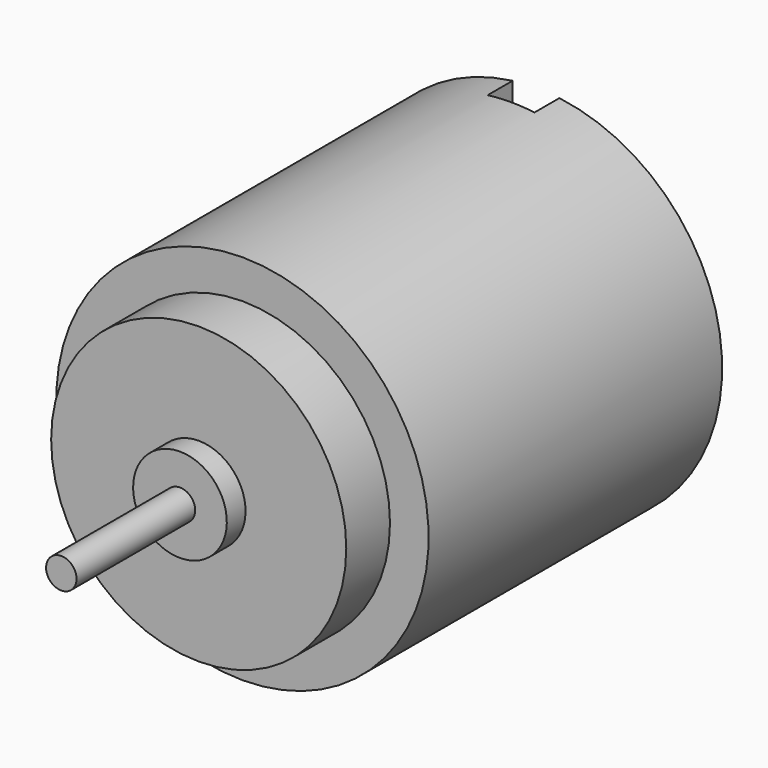
from build123d import *

# Parameters (mm, degrees)
F3_DEPTH = 2


with BuildPart() as f1:
    # F0 (on Right) → F1 (revolve)
    with BuildSketch(Plane.YZ):
        Polygon((-38, 0), (0, 0), (0, 11.925), (-23.5, 11.925), (-23.5, 9.45), (-27, 9.45), (-27, 3), (-28.5, 3), (-28.5, 0.975), (-38, 0.975), align=None)
    revolve(axis=Axis((0, -23.908602, 0), (0, -1, 0)))

    # F2 (on face) → F3 (cut)
    with BuildSketch(Plane(origin=(0, 0, 0), x_dir=(-1, 0, 0), z_dir=(0, 1, 0))):
        with BuildLine():
            Line((1.5, 11.925), (-1.5, 11.925))
            Line((-1.5, 11.925), (-1.5, 9.625))
            ThreePointArc((-1.5, 9.625), (-1.06066, 8.56434), (0, 8.125))
            ThreePointArc((0, 8.125), (1.06066, 8.56434), (1.5, 9.625))
            Line((1.5, 9.625), (1.5, 11.925))
        make_face()
        with BuildLine():
            Line((1.5, -11.925), (1.5, -9.625))
            ThreePointArc((1.5, -9.625), (0, -8.125), (-1.5, -9.625))
            Line((-1.5, -9.625), (-1.5, -11.925))
            Line((-1.5, -11.925), (1.5, -11.925))
        make_face()
    extrude(amount=-F3_DEPTH, mode=Mode.SUBTRACT)


solid = f1.part
